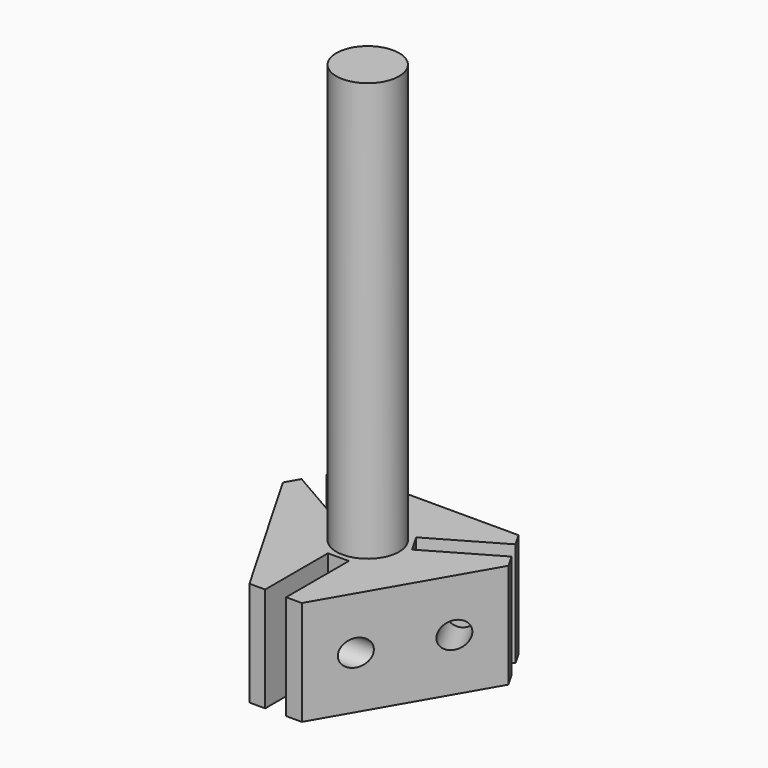
from build123d import *

# Parameters (mm, degrees)
F1_DEPTH  = 20
F2_W      = 4
F2_H      = 15
F3_DEPTH  = 25
F4_R      = 6
F5_DEPTH  = 80
F6_R      = 2.5
F7_DEPTH  = 12.5
F8_R      = 2.5
F9_DEPTH  = 15
F10_R     = 2.5
F11_DEPTH = 15


with BuildPart() as f1:
    # F0 (on Top) → F1 (new body)
    with BuildSketch(Plane.XY):
        Polygon((16.5525, 15.3300930227), (-16.5525, 15.3300930227), (-21.5525, 6.6698389848), (-5, -21.9999320075), (5, -21.9999320075), (21.5525, 6.6698389848), align=None)
    extrude(amount=F1_DEPTH)

    # F2 (on face) → F3 (cut)
    with BuildSketch(Plane.XY.offset(20)):
        with Locations((0, -14.4999320075)):
            Rectangle(F2_W, F2_H)
        Polygon((20.0525, 9.2679151962), (18.0525, 12.7320168113), (5.0621189432, 5.2320168113), (7.0621189432, 1.7679151962), align=None)
        Polygon((-5.0621189432, 5.2320168113), (-18.0525, 12.7320168113), (-20.0525, 9.2679151962), (-7.0621189432, 1.7679151962), align=None)
    extrude(amount=-F3_DEPTH, mode=Mode.SUBTRACT)

    # F4 (on face) → F5 (join)
    with BuildSketch(Plane.XY.offset(20)):
        Circle(F4_R)
    extrude(amount=F5_DEPTH)

    # F6 (on Right) → F7 (cut, symmetric)
    with BuildSketch(Plane.YZ):
        with Locations((-14.4999320075, 10)):
            Circle(F6_R)
    extrude(amount=F7_DEPTH, both=True, mode=Mode.SUBTRACT)

    # F8 (on face) → F9 (cut, symmetric)
    with BuildSketch(Plane(origin=(1, 1.7320508076, 0), x_dir=(0.8660254038, -0.5, 0), z_dir=(-0.5, -0.8660254038, 0))):
        with Locations((-14.4999320075, 10)):
            Circle(F8_R)
    extrude(amount=F9_DEPTH, both=True, mode=Mode.SUBTRACT)

    # F10 (on face) → F11 (cut, symmetric)
    with BuildSketch(Plane(origin=(1, -1.7320508076, 0), x_dir=(-0.8660254038, -0.5, 0), z_dir=(-0.5, 0.8660254038, 0))):
        with Locations((-14.4999320075, 10)):
            Circle(F10_R)
    extrude(amount=F11_DEPTH, both=True, mode=Mode.SUBTRACT)


solid = f1.part
